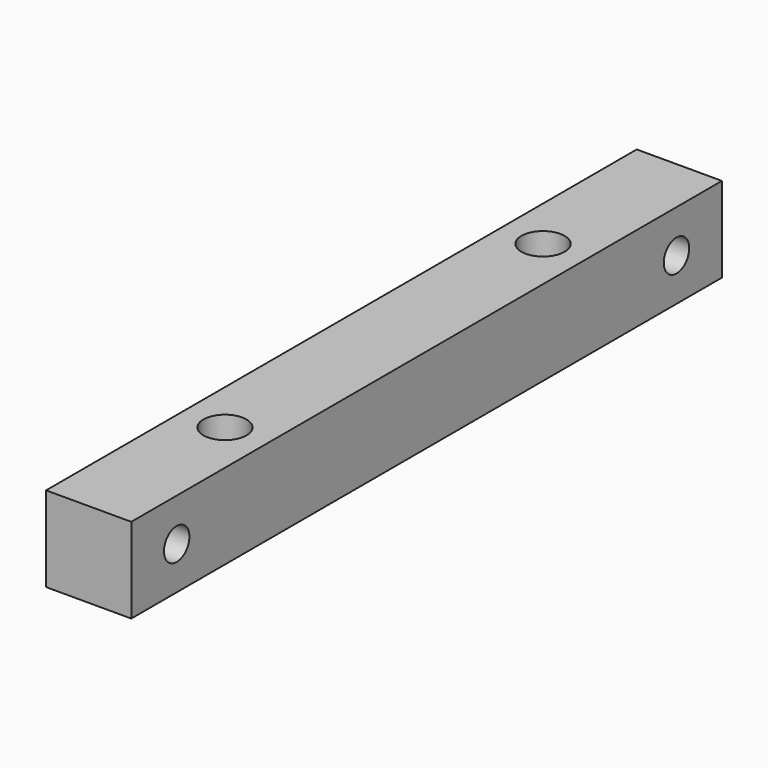
from build123d import *

# Parameters (mm, degrees)
F0_W     = 9.525
F0_H     = 9.525
F1_DEPTH = 41.275
F3_R     = 2.413
F4_DEPTH = 9.525
F2_R     = 1.778
F5_DEPTH = 9.525


with BuildPart() as f1:
    # F0 (on Front) → F1 (new body, symmetric)
    with BuildSketch(Plane.XZ):
        Rectangle(F0_W, F0_H)
    extrude(amount=F1_DEPTH, both=True)

    # F3 (on face) → F4 (cut)
    with BuildSketch(Plane.XY.offset(4.7625)):
        with Locations((0, 22.225)):
            Circle(F3_R)
        with Locations((0, -22.225)):
            Circle(F3_R)
    extrude(amount=-F4_DEPTH, mode=Mode.SUBTRACT)

    # F2 (on face) → F5 (cut)
    with BuildSketch(Plane(origin=(-4.7625, 0, 0), x_dir=(0, -1, 0), z_dir=(-1, 0, 0))):
        with Locations((34.925, 0)):
            Circle(F2_R)
        with Locations((-34.925, 0)):
            Circle(F2_R)
    extrude(amount=-F5_DEPTH, mode=Mode.SUBTRACT)


solid = f1.part
